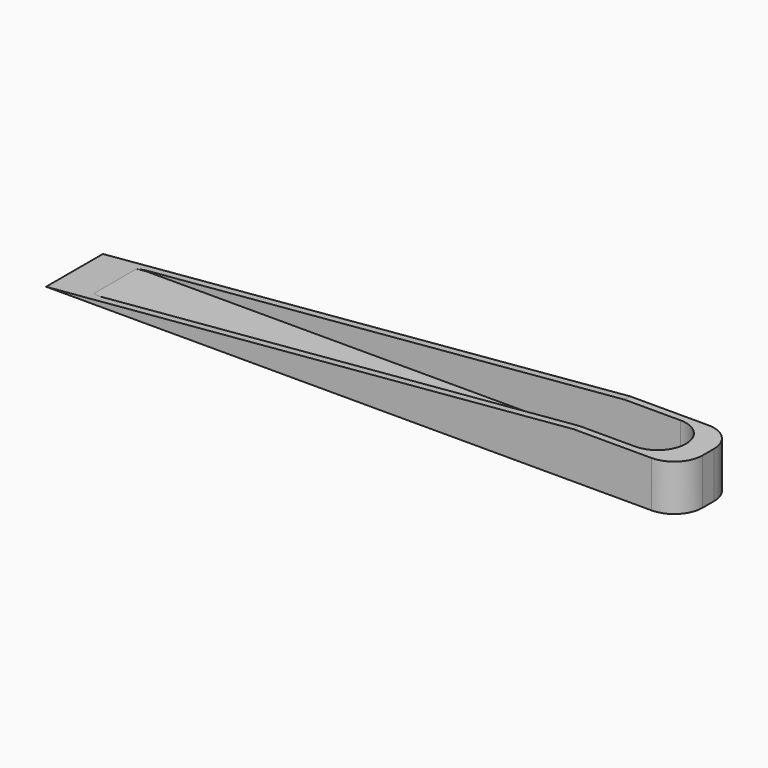
from build123d import *

# Parameters (mm, degrees)
PAD127_DEPTH            = 10
FILLET002_R             = 8
POCKET105_DEPTH         = 12
BODY089_PLACEMENT_ANGLE = 270


with BuildPart() as part:
    # Sketch257 → Pad127 (new body, symmetric)
    with BuildSketch(Plane.YZ):
        Polygon((0, 13), (-148.59068, 0), (30, 0), (30, 13), align=None)
    extrude(amount=PAD127_DEPTH, both=True)

    # Fillet002
    fillet002_edges = [part.edges().sort_by_distance(p)[0] for p in [
        (10, 30, 6.5),
        (-10, 30, 6.5),
    ]]
    fillet(fillet002_edges, radius=FILLET002_R)

    # Sketch258 (on Face8 of Fillet002) → Pocket105 (cut)
    with BuildSketch(Plane(origin=(0, 0, 13), x_dir=(0, -1, 0), z_dir=(0, 0, 1))):
        with BuildLine():
            ThreePointArc((-15.70466, 8), (-23.70466, 0), (-15.70466, -8))
            Line((-15.70466, -8), (134.29534, -8))
            ThreePointArc((134.29534, -8), (142.29534, 0), (134.29534, 8))
            Line((-15.70466, 8), (134.29534, 8))
        make_face()
    extrude(amount=-POCKET105_DEPTH, mode=Mode.SUBTRACT)


with BuildPart() as part_1:
    # Body089 placement: moved
    add(part.part.moved(Location((173, -150, 39))).rotate(Axis((173, -150, 39), (0, 0, 1)), BODY089_PLACEMENT_ANGLE))


solid = part_1.part
